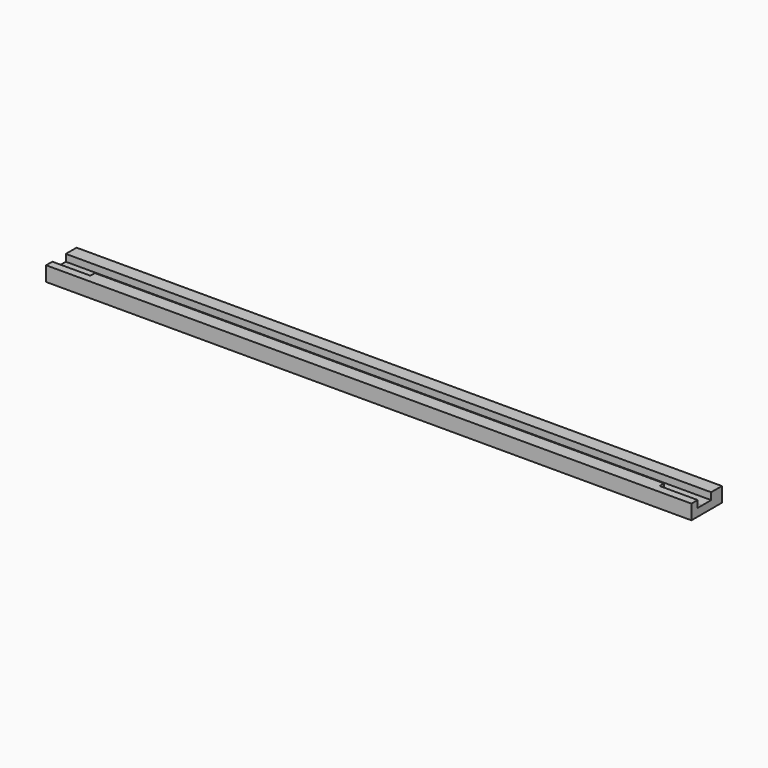
from build123d import *

# Parameters (mm, degrees)
F0_W     = 745
F0_H     = 44
F1_DEPTH = 17
F2_W     = 12.964161098
F2_H     = 8.0115068778
F3_DEPTH = 745
F4_W     = 44
F4_H     = 6.5
F5_DEPTH = 8
F6_W     = 44
F6_H     = 6.5
F7_DEPTH = 8


with BuildPart() as f1:
    # F0 (on Top) → F1 (new body)
    with BuildSketch(Plane.XY):
        with Locations((164.9187269809, -22)):
            Rectangle(F0_W, F0_H)
    extrude(amount=F1_DEPTH)

    # F2 (on face) → F3 (cut)
    with BuildSketch(Plane.YZ.offset(537.4187269809)):
        with Locations((-22.017919451, 12.9942465611)):
            Rectangle(F2_W, F2_H)
    extrude(amount=-F3_DEPTH, mode=Mode.SUBTRACT)

    # F4 (on face) → F5 (cut)
    with BuildSketch(Plane.XY.offset(17)):
        with Locations((515.4187269809, -31.75)):
            Rectangle(F4_W, F4_H)
    extrude(amount=-F5_DEPTH, mode=Mode.SUBTRACT)

    # F6 (on face) → F7 (cut)
    with BuildSketch(Plane.XY.offset(17)):
        with Locations((-185.5812730191, -31.75)):
            Rectangle(F6_W, F6_H)
    extrude(amount=-F7_DEPTH, mode=Mode.SUBTRACT)


solid = f1.part
